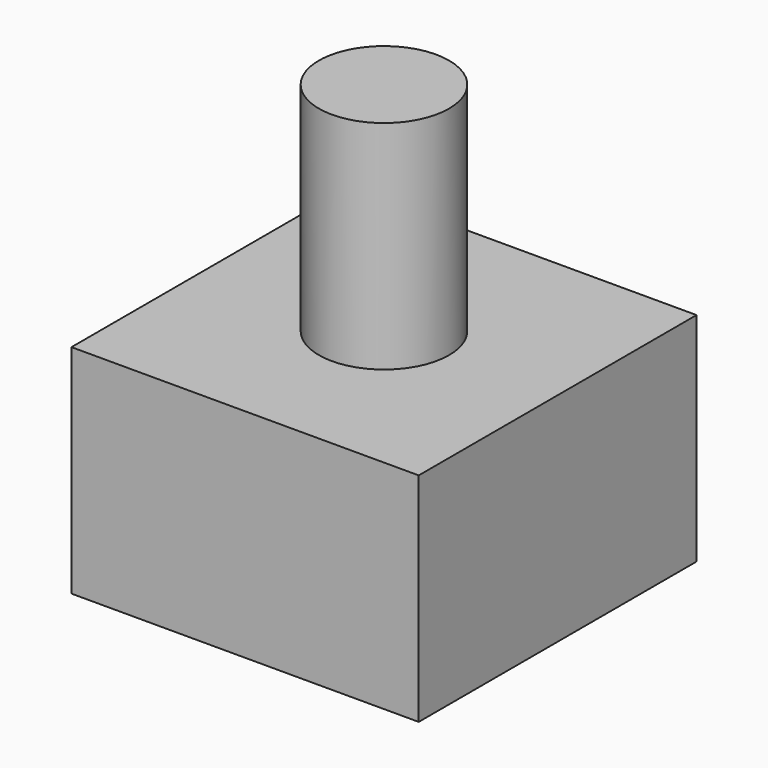
from build123d import *

# Parameters (mm, degrees)
BOX001_W       = 10
BOX001_H       = 10
BOX001_DEPTH   = 8
CYLINDER_R     = 3
CYLINDER_DEPTH = 10
BOX_W          = 16
BOX_H          = 16
BOX_DEPTH      = 10


with BuildPart() as cube001:
    # Box001 → Box001 (new body)
    with BuildSketch(Plane(origin=(-5, -5, 0), x_dir=(1, 0, 0), z_dir=(0, 0, 1))):
        with Locations((5, 5)):
            Rectangle(BOX001_W, BOX001_H)
    extrude(amount=BOX001_DEPTH)


with BuildPart() as cylinder:
    # Cylinder → Cylinder (new body)
    with BuildSketch(Plane.XY.offset(10)):
        Circle(CYLINDER_R)
    extrude(amount=CYLINDER_DEPTH)


with BuildPart() as cut:
    # Box → Box (new body)
    with BuildSketch(Plane(origin=(-8, -8, 0), x_dir=(1, 0, 0), z_dir=(0, 0, 1))):
        with Locations((8, 8)):
            Rectangle(BOX_W, BOX_H)
    extrude(amount=BOX_DEPTH)

    # Fusion: union Cylinder
    add(cylinder.part)

    # Cut: cut Cube001
    add(cube001.part, mode=Mode.SUBTRACT)


solid = cut.part
